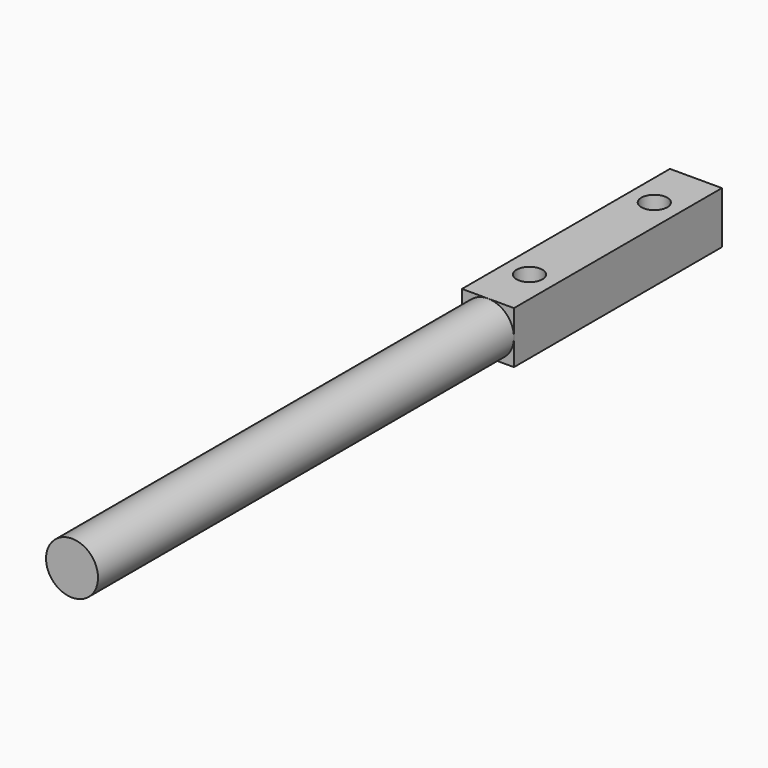
from build123d import *

# Parameters (mm, degrees)
F0_R     = 0.25
F1_DEPTH = 3.75
F2_W     = 0.5
F2_H     = 0.5
F3_DEPTH = 2.5
F4_R     = 0.125
F5_DEPTH = 25


with BuildPart() as f1:
    # F0 (on Front) → F1 (new body, symmetric)
    with BuildSketch(Plane.XZ):
        Circle(F0_R)
    extrude(amount=F1_DEPTH, both=True)

    # F2 (on face) → F3 (join)
    with BuildSketch(Plane(origin=(0, 3.75, 0), x_dir=(-1, 0, 0), z_dir=(0, 1, 0))):
        Rectangle(F2_W, F2_H)
    extrude(amount=-F3_DEPTH)

    # F4 (on face) → F5 (cut)
    with BuildSketch(Plane.XY.offset(0.25)):
        with Locations((0, 3.25)):
            Circle(F4_R)
        with Locations((0, 1.75)):
            Circle(F4_R)
    extrude(amount=-F5_DEPTH, mode=Mode.SUBTRACT)


solid = f1.part
